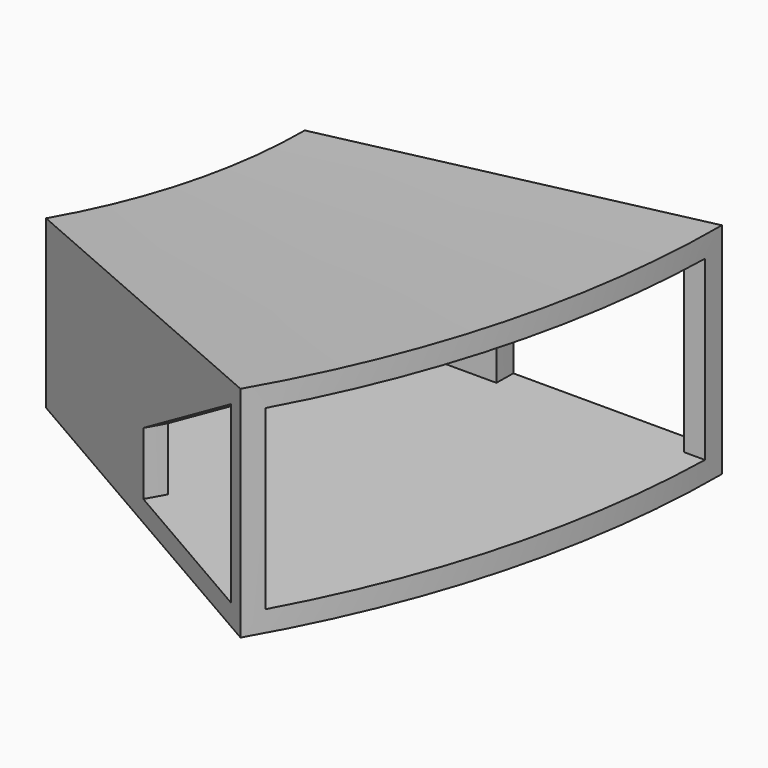
from build123d import *

# Parameters (mm, degrees)
F1_ANGLE = 30
F2_T     = -5.08
F6_ANGLE = 1


with BuildPart() as f1:
    # F0 (on Front) → F1 (revolve)
    with BuildSketch(Plane.XZ):
        Polygon((-50.8, -20.32), (50.8, -20.32), (50.8, 20.32), (50.8, 33.02), (-50.8, 20.32), align=None)
    revolve(axis=Axis((-168.781414628, 0, 147.0986076593), (0, 0, -1)), revolution_arc=F1_ANGLE)

    # F2
    f2_openings = [f1.faces().sort_by_distance(p)[0] for p in [
        (43.317945, -56.831852, 6.35),
    ]]
    offset(amount=F2_T, openings=f2_openings, kind=Kind.INTERSECTION)

    # F3 (on face) → F4 (revolve, cut)
    with BuildSketch(Plane(origin=(0, 0, 0), x_dir=(-1, 0, 0), z_dir=(0, 1, 0))):
        Polygon((0, 0), (-45.72, 27.2654663298), (-45.72, -15.24), (0, -15.24), align=None)
    revolve(axis=Axis((-168.781414628, 0, 147.0986076593), (0, 0, -1)), mode=Mode.SUBTRACT)

    # F5 (on face) → F6 (revolve, cut)
    with BuildSketch(Plane.XZ):
        Polygon((-48.460111432, 15.24), (-48.460111432, 0), (0, 15.24), align=None)
    revolve(axis=Axis((-168.781414628, 0, 147.0986076593), (0, 0, -1)), revolution_arc=F6_ANGLE, mode=Mode.SUBTRACT)


solid = f1.part
